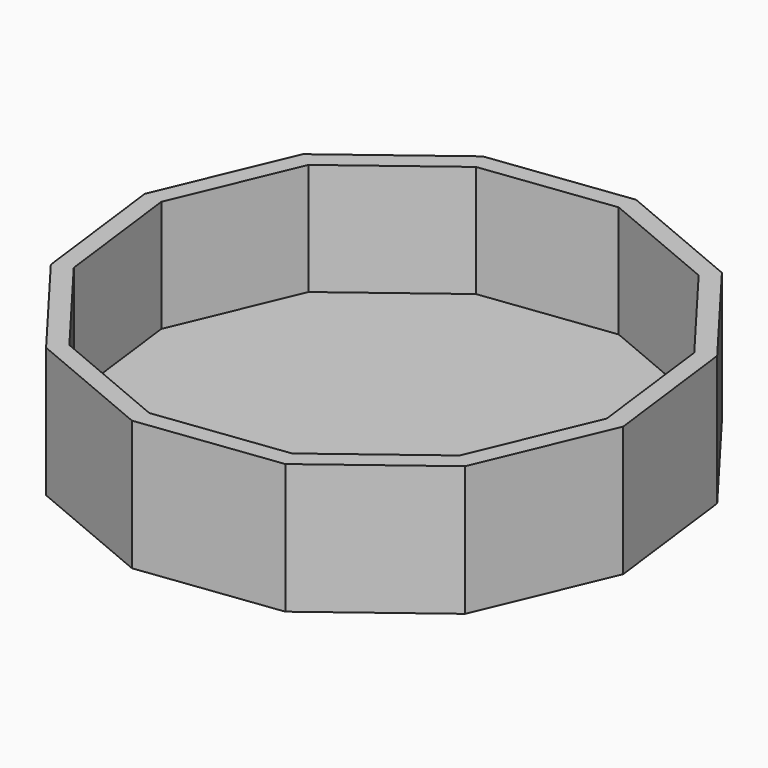
from build123d import *

# Parameters (mm, degrees)
F1_DEPTH = 18.288
F2_T     = -177.8
F3_T     = -2.54


with BuildPart() as f1:
    # F0 (on Top) → F1 (new body)
    with BuildSketch(Plane.XY):
        Polygon((5.212843, 44.114474), (-14.399178, 41.653003), (-30.152951, 29.715296), (-37.827265, 11.500053), (-35.365794, -8.111968), (-23.428087, -23.865741), (-5.212843, -31.540055), (14.399178, -29.078584), (30.152951, -17.140877), (37.827265, 1.074367), (35.365794, 20.686388), (23.428087, 36.44016), align=None)
    extrude(amount=F1_DEPTH)

    # F2
    f2_openings = [f1.faces().sort_by_distance(p)[0] for p in [
        (0, 6.28721, 18.288),
    ]]
    offset(amount=F2_T, openings=f2_openings)

    # F3
    f3_openings = [f1.faces().sort_by_distance(p)[0] for p in [
        (0, 6.28721, 18.288),
    ]]
    offset(amount=F3_T, openings=f3_openings)


solid = f1.part
